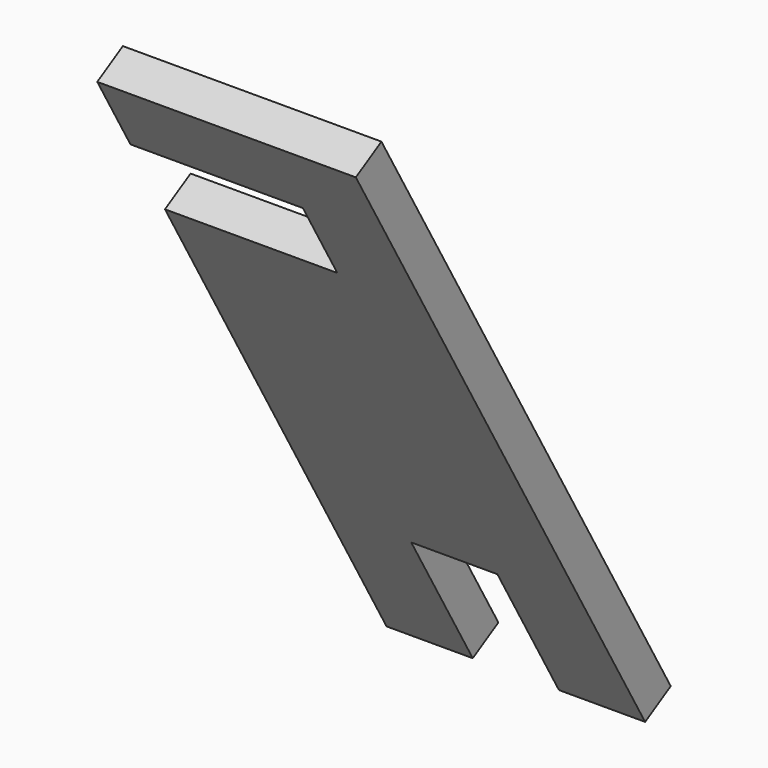
from build123d import *

# Parameters (mm, degrees)
F2_W     = 35.56
F2_H     = 63.5
F3_DEPTH = 15.24


with BuildPart() as f3:
    # F2 (on face) → F3 (new body)
    with BuildSketch(Plane(origin=(0, 0, 0), x_dir=(-1, 0, 0), z_dir=(0, 0.866025, 0.5))):
        Polygon((53.34, 149.225), (-53.34, 149.225), (-53.34, -85.725), (-17.78, -85.725), (17.78, -85.725), (17.78, -149.225), (53.34, -149.225), (53.34, 79.375), (-17.78, 79.375), (-17.78, 114.935), (53.34, 114.935), align=None)
        with Locations((-35.56, -117.475)):
            Rectangle(F2_W, F2_H)
    extrude(amount=F3_DEPTH)


solid = f3.part
